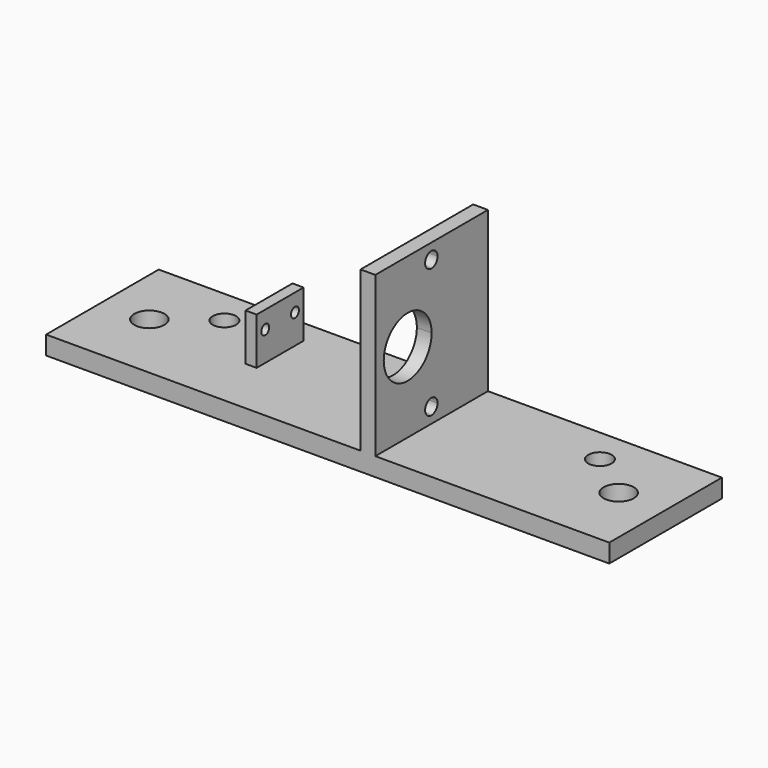
from build123d import *

# Parameters (mm, degrees)
F0_W     = 76.2
F0_H     = 38.1
F0_R     = 4.06875
F0_R_2   = 3.175
F1_DEPTH = 5
F2_W     = 4
F2_H     = 19.05
F3_DEPTH = 43.18
F4_W     = 3
F4_H     = 15.875
F5_DEPTH = 12.7
F7_DEPTH = 4
F8_R     = 1.349997
F9_DEPTH = 3


with BuildPart() as f1:
    # F0 (on Top) → F1 (new body)
    with BuildSketch(Plane.XY):
        with Locations((38.1, 0)):
            Rectangle(F0_W, F0_H)
        with Locations((63.5, 0)):
            Circle(F0_R, mode=Mode.SUBTRACT)
        with Locations((50.8, 9.525)):
            Circle(F0_R_2, mode=Mode.SUBTRACT)
        with Locations((-38.1, 0)):
            Rectangle(F0_W, F0_H)
        with Locations((-63.5, 0)):
            Circle(F0_R, mode=Mode.SUBTRACT)
        with Locations((-50.8, 9.525)):
            Circle(F0_R_2, mode=Mode.SUBTRACT)
    extrude(amount=F1_DEPTH)

    # F2 (on face) → F3 (join)
    with BuildSketch(Plane.XY.offset(5)):
        with Locations((10.89, 9.525)):
            Rectangle(F2_W, F2_H)
        with Locations((10.89, -9.525)):
            Rectangle(F2_W, F2_H)
    extrude(amount=F3_DEPTH)

    # F4 (on face) → F5 (join)
    with BuildSketch(Plane.XY.offset(5)):
        with Locations((-33.425, 4.7625)):
            Rectangle(F4_W, F4_H)
    extrude(amount=F5_DEPTH)

    # F6 (on face) → F7 (cut, through all)
    with BuildSketch(Plane.YZ.offset(12.89)):
        with BuildLine():
            Line((-8.099996, 26.59), (1.3e-05, 26.59))
            ThreePointArc((1.3e-05, 26.59), (-8.099996, 34.690009), (-16.200006, 26.59))
            Line((-16.200006, 26.59), (-8.099996, 26.59))
        make_face()
        with BuildLine():
            ThreePointArc((-16.200006, 26.59), (-8.099996, 18.489991), (1.3e-05, 26.59))
            Line((1.3e-05, 26.59), (-8.099996, 26.59))
            Line((-8.099996, 26.59), (-16.200006, 26.59))
        make_face()
        with BuildLine():
            ThreePointArc((0, 46.187605), (-2.199983, 44.08999), (0, 41.992376))
            Line((0, 41.992376), (0, 46.187605))
        make_face()
        with BuildLine():
            Line((0, 46.187605), (0, 41.992376))
            ThreePointArc((0, 41.992376), (1.419874, 42.640851), (2.000009, 44.08999))
            ThreePointArc((2.000009, 44.08999), (1.419874, 45.53913), (0, 46.187605))
        make_face()
        with BuildLine():
            ThreePointArc((2.000009, 9.09001), (1.419874, 10.539149), (0, 11.187624))
            Line((0, 11.187624), (0, 6.992395))
            ThreePointArc((0, 6.992395), (1.419874, 7.64087), (2.000009, 9.09001))
        make_face()
        with BuildLine():
            Line((0, 6.992395), (0, 11.187624))
            ThreePointArc((0, 11.187624), (-2.199983, 9.09001), (0, 6.992395))
        make_face()
    extrude(amount=-F7_DEPTH, mode=Mode.SUBTRACT)

    # F8 (on face) → F9 (cut, through all)
    with BuildSketch(Plane(origin=(-34.925, 0, 0), x_dir=(0, -1, 0), z_dir=(-1, 0, 0))):
        with Locations((-9.787496, 12.949984)):
            Circle(F8_R)
        with Locations((0.262496, 12.949984)):
            Circle(F8_R)
    extrude(amount=-F9_DEPTH, mode=Mode.SUBTRACT)


solid = f1.part
